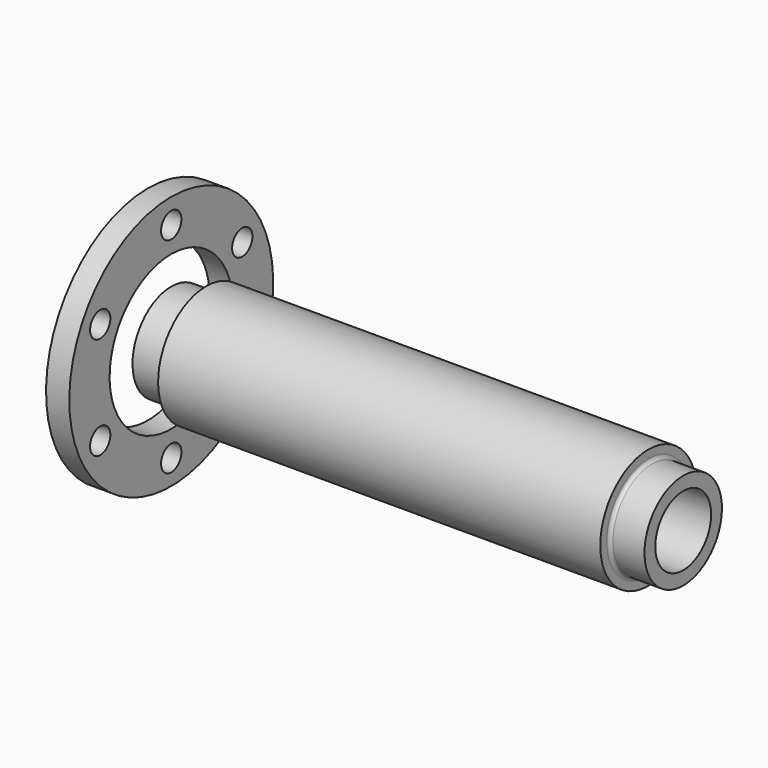
from build123d import *

# Parameters (mm, degrees)
F0_W     = 5
F0_H     = 10.825
F2_R     = 2.725
F3_DEPTH = 25


with BuildPart() as f1:
    # F0 (on Front) → F1 (revolve)
    with BuildSketch(Plane.XZ):
        with Locations((-2.5, 21.9625)):
            Rectangle(F0_W, F0_H)
    revolve(axis=Axis((-22.936802, 0, 0), (-1, 0, 0)))

    # F2 (on Right) → F3 (cut)
    with BuildSketch(Plane.YZ):
        with Locations((0, 22.025)):
            Circle(F2_R)
        with Locations((-19.07421, 11.0125)):
            Circle(F2_R)
        with Locations((-19.07421, -11.0125)):
            Circle(F2_R)
        with Locations((0, -22.025)):
            Circle(F2_R)
        with Locations((19.07421, -11.0125)):
            Circle(F2_R)
        with Locations((19.07421, 11.0125)):
            Circle(F2_R)
    extrude(amount=-F3_DEPTH, mode=Mode.SUBTRACT)


with BuildPart() as f5:
    # F4 (on Front) → F5 (revolve)
    with BuildSketch(Plane.XZ):
        with BuildLine():
            Line((0, 10.4), (0, 7.5))
            Line((0, 7.5), (110, 7.5))
            Line((110, 7.5), (110, 10.4))
            Line((110, 10.4), (103.25, 10.4))
            ThreePointArc((103.25, 10.4), (102.71967, 10.61967), (102.5, 11.15))
            Line((102.5, 11.15), (102.5, 12.9))
            Line((102.5, 12.9), (7.5, 12.9))
            Line((7.5, 12.9), (7.5, 11.15))
            ThreePointArc((7.5, 11.15), (7.28033, 10.61967), (6.75, 10.4))
            Line((6.75, 10.4), (0, 10.4))
        make_face()
    revolve(axis=Axis((72.28097, 0, 0), (1, 0, 0)))


solid = Compound([f1.part, f5.part])
